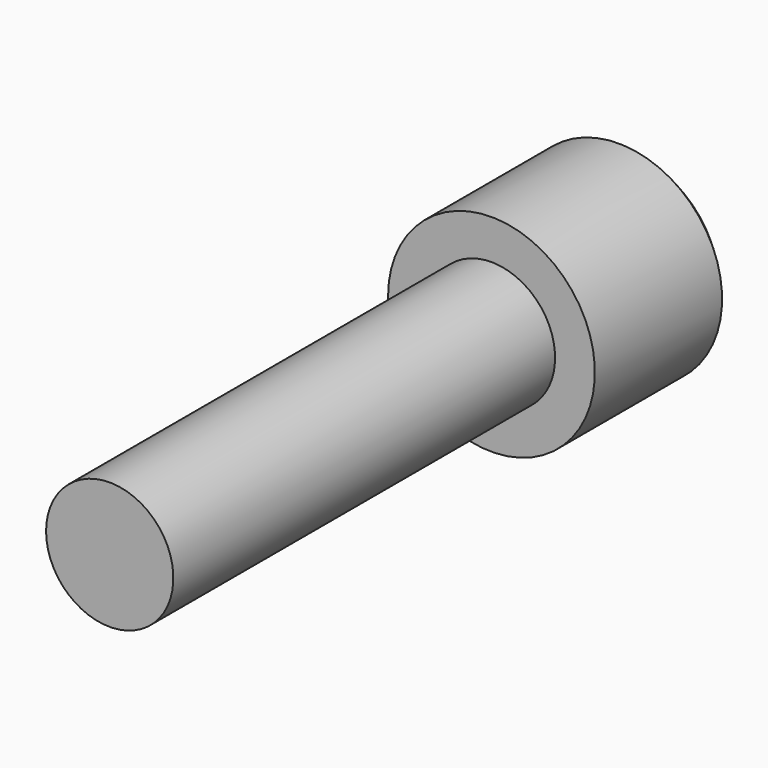
from build123d import *

# Parameters (mm, degrees)
F3_DEPTH = 9
F4_SIZE  = 1


with BuildPart() as f1:
    # F0 (on Top) → F1 (revolve)
    with BuildSketch(Plane.XY):
        Polygon((-4, 0), (0, 0), (0, 41), (-6.5, 41), (-6.5, 30), (-4, 30), align=None)
    revolve(axis=Axis((0, 20.5, 0), (0, 1, 0)))

    # F2 (on face) → F3 (cut)
    with BuildSketch(Plane(origin=(0, 41, 0), x_dir=(-1, 0, 0), z_dir=(0, 1, 0))):
        Polygon((-3.255243, -1.184649), (-0.601686, -3.411448), (2.653557, -2.226799), (3.255243, 1.184649), (0.601686, 3.411448), (-2.653557, 2.226799), align=None)
    extrude(amount=-F3_DEPTH, mode=Mode.SUBTRACT)

    # F4
    f4_edges = [f1.edges().sort_by_distance(p)[0] for p in [
        (6.5, 41, 0),
    ]]
    chamfer(f4_edges, length=F4_SIZE)


solid = f1.part
